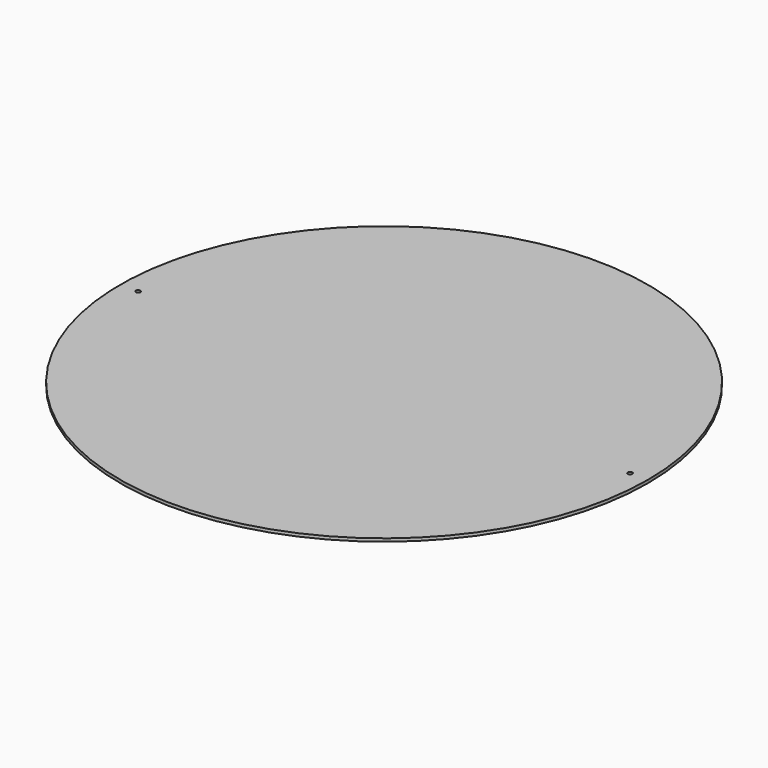
from build123d import *

# Parameters (mm, degrees)
F0_R     = 279.4
F0_R_2   = 2.38125
F0_R_3   = 241.3
F1_DEPTH = 3.175


with BuildPart() as f1:
    # F0 (on Top) → F1 (new body)
    with BuildSketch(Plane.XY):
        Circle(F0_R)
        with Locations((-260.35, 0)):
            Circle(F0_R_2, mode=Mode.SUBTRACT)
        Circle(F0_R_3, mode=Mode.SUBTRACT)
        with Locations((260.35, 0)):
            Circle(F0_R_2, mode=Mode.SUBTRACT)
        Circle(F0_R_3)
    extrude(amount=F1_DEPTH)


solid = f1.part
